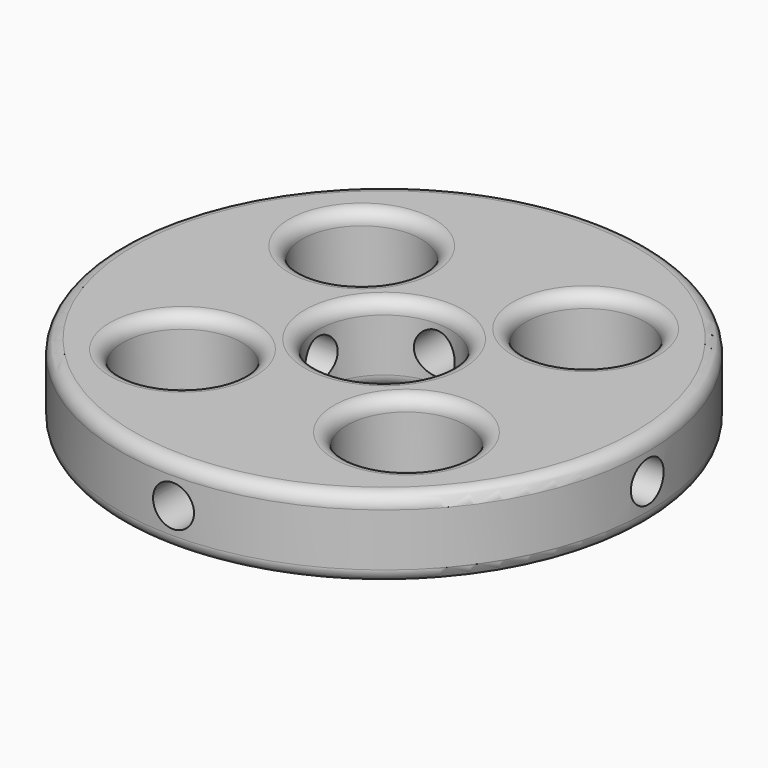
from build123d import *

# Parameters (mm, degrees)
SKETCH_W              = 15
SKETCH_H              = 6
SKETCH001_R           = 1.55
HOLE_DEPTH            = 25
POLARPATTERN_COUNT    = 4
SKETCH002_R           = 4.5
POCKET_DEPTH          = 5
POCKET_DEPTH_BACK     = 100
POLARPATTERN001_COUNT = 4
FILLET_R              = 1
FILLET001_R           = 1


with BuildPart() as part:
    # Sketch → Revolution (revolve)
    with BuildSketch(Plane.XZ):
        with Locations((12.5, 0)):
            Rectangle(SKETCH_W, SKETCH_H)
    revolve(axis=Axis((0, 0, 0), (0, 0, 1)))

    # Sketch001 → Hole (cut)
    with BuildSketch(Plane.XZ):
        Circle(SKETCH001_R)
    hole = extrude(amount=-HOLE_DEPTH, mode=Mode.SUBTRACT)

    # PolarPattern: Hole ×4 about axis
    polarpattern_axis = Axis((0, 0, 0), (0, 0, 1))
    for i in range(1, POLARPATTERN_COUNT):
        add(hole.rotate(polarpattern_axis, i * 360 / POLARPATTERN_COUNT), mode=Mode.SUBTRACT)

    # Sketch002 → Pocket (cut, two sides)
    with BuildSketch(Plane.XY) as pocket_sk:
        with Locations((8.485281, 8.485281)):
            Circle(SKETCH002_R)
    pocket = extrude(amount=-POCKET_DEPTH, mode=Mode.SUBTRACT) + extrude(pocket_sk.sketch, amount=POCKET_DEPTH_BACK, mode=Mode.SUBTRACT)

    # PolarPattern001: Pocket ×4 about axis
    polarpattern001_axis = Axis((0, 0, 0), (0, 0, 1))
    for i in range(1, POLARPATTERN001_COUNT):
        add(pocket.rotate(polarpattern001_axis, i * 360 / POLARPATTERN001_COUNT), mode=Mode.SUBTRACT)

    # Fillet
    fillet_edges = [part.edges().sort_by_distance(p)[0] for p in [
        (-20, 0, 3),
        (3.985281, 8.485281, 3),
        (-5, 0, 3),
        (-8.485281, 3.985281, 3),
        (-3.985281, -8.485281, 3),
        (8.485281, -3.985281, 3),
    ]]
    fillet(fillet_edges, radius=FILLET_R)

    # Fillet001
    fillet001_edges = [part.edges().sort_by_distance(p)[0] for p in [
        (-20, 0, -3),
        (3.985281, 8.485281, -3),
        (8.485281, -3.985281, -3),
        (-5, 0, -3),
        (-8.485281, 3.985281, -3),
        (-3.985281, -8.485281, -3),
    ]]
    fillet(fillet001_edges, radius=FILLET001_R)


solid = part.part
